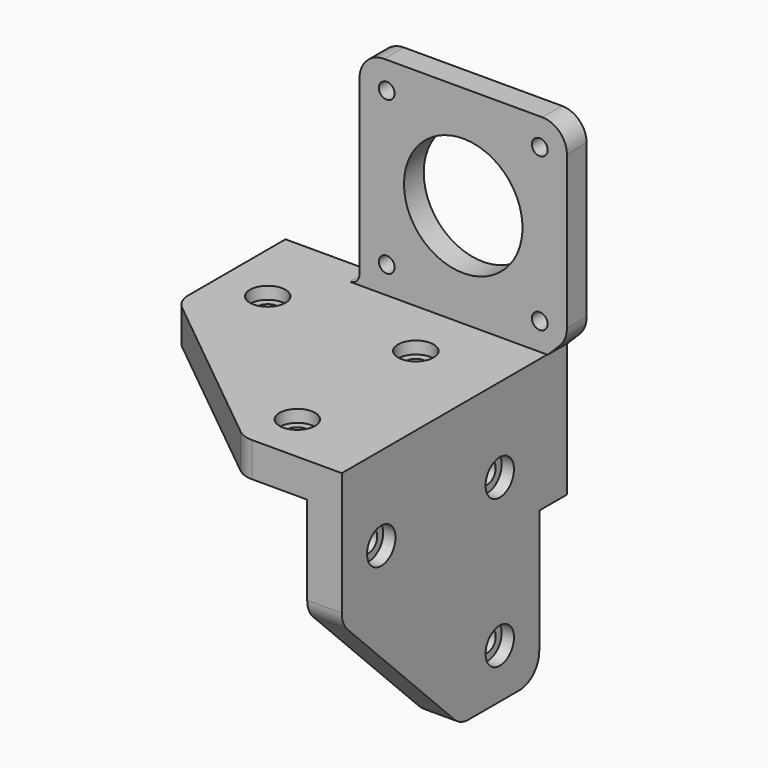
from build123d import *

# Parameters (mm, degrees)
SKETCH_R        = 2.1
PAD_DEPTH       = 7
SKETCH001_R     = 2.1
PAD001_DEPTH    = 7
SKETCH002_W     = 57
SKETCH002_H     = 27
SKETCH002_R     = 2.1
PAD002_DEPTH    = 7
SKETCH003_R     = 3.6
POCKET_DEPTH    = 2.5
SKETCH004_R     = 3.6
POCKET001_DEPTH = 2
SKETCH005_R     = 3.6
POCKET002_DEPTH = 2
SKETCH006_W     = 42
SKETCH006_H     = 42
SKETCH006_R     = 1.6
SKETCH006_R_2   = 12
PAD003_DEPTH    = 5
SKETCH007_R     = 3.6
POCKET003_DEPTH = 2.5
SKETCH008_R     = 2.1
PAD004_DEPTH    = 0.2
CHAMFER_SIZE    = 3.9
FILLET_R        = 5
FILLET001_R     = 2
FILLET002_R     = 5
FILLET003_R     = 5
FILLET004_R     = 5


with BuildPart() as part:
    # Sketch → Pad (new body)
    with BuildSketch(Plane.XY):
        Polygon((-40, 10), (-40, -10), (-3, -40), (17, -40), (17, 10), align=None)
        Circle(SKETCH_R, mode=Mode.SUBTRACT)
        with Locations((0, -30)):
            Circle(SKETCH_R, mode=Mode.SUBTRACT)
        with Locations((-30, 0)):
            Circle(SKETCH_R, mode=Mode.SUBTRACT)
    extrude(amount=PAD_DEPTH)

    # Sketch001 → Pad001 (new body)
    with BuildSketch(Plane.YZ.offset(17)):
        Polygon((10, 0), (10, -50), (-10, -50), (-40, -20), (-40, 0), align=None)
        with Locations((0, -10)):
            Circle(SKETCH001_R, mode=Mode.SUBTRACT)
        with Locations((0, -40)):
            Circle(SKETCH001_R, mode=Mode.SUBTRACT)
        with Locations((-30, -10)):
            Circle(SKETCH001_R, mode=Mode.SUBTRACT)
    extrude(amount=-PAD001_DEPTH)

    # Sketch002 → Pad002 (new body)
    with BuildSketch(Plane(origin=(0, 10, 0), x_dir=(-1, 0, 0), z_dir=(0, 1, 0))):
        with Locations((11.5, -6.5)):
            Rectangle(SKETCH002_W, SKETCH002_H)
        with Locations((30, -10)):
            Circle(SKETCH002_R, mode=Mode.SUBTRACT)
    extrude(amount=PAD002_DEPTH)

    # Sketch003 → Pocket (cut)
    with BuildSketch(Plane.XY.offset(7)):
        Circle(SKETCH003_R)
        with Locations((-30, 0)):
            Circle(SKETCH003_R)
        with Locations((0, -30)):
            Circle(SKETCH003_R)
    extrude(amount=-POCKET_DEPTH, mode=Mode.SUBTRACT)

    # Sketch004 → Pocket001 (cut)
    with BuildSketch(Plane(origin=(-40, 0, 0), x_dir=(0, -1, 0), z_dir=(-1, 0, 0))):
        with Locations((-30, -10)):
            Circle(SKETCH004_R)
        with Locations((0, -10)):
            Circle(SKETCH004_R)
        with Locations((0, -40)):
            Circle(SKETCH004_R)
    extrude(amount=-POCKET001_DEPTH, mode=Mode.SUBTRACT)

    # Sketch005 → Pocket002 (cut)
    with BuildSketch(Plane(origin=(0, 17, 0), x_dir=(-1, 0, 0), z_dir=(0, 1, 0))):
        with Locations((30, -10)):
            Circle(SKETCH005_R)
    extrude(amount=-POCKET002_DEPTH, mode=Mode.SUBTRACT)

    # Sketch006 → Pad003 (new body)
    with BuildSketch(Plane(origin=(0, 17, 0), x_dir=(-1, 0, 0), z_dir=(0, 1, 0))):
        with Locations((0, 28)):
            Rectangle(SKETCH006_W, SKETCH006_H)
        with Locations((-15.5, 43.5)):
            Circle(SKETCH006_R, mode=Mode.SUBTRACT)
        with Locations((15.5, 43.5)):
            Circle(SKETCH006_R, mode=Mode.SUBTRACT)
        with Locations((15.5, 12.5)):
            Circle(SKETCH006_R, mode=Mode.SUBTRACT)
        with Locations((-15.5, 12.5)):
            Circle(SKETCH006_R, mode=Mode.SUBTRACT)
        with Locations((0, 28)):
            Circle(SKETCH006_R_2, mode=Mode.SUBTRACT)
    extrude(amount=-PAD003_DEPTH)

    # Sketch007 → Pocket003 (cut)
    with BuildSketch(Plane.YZ.offset(17)):
        with Locations((-30, -10)):
            Circle(SKETCH007_R)
        with Locations((0, -10)):
            Circle(SKETCH007_R)
        with Locations((0, -40)):
            Circle(SKETCH007_R)
    extrude(amount=-POCKET003_DEPTH, mode=Mode.SUBTRACT)

    # Sketch008 → Pad004 (new body)
    with BuildSketch(Plane(origin=(0, 15, 0), x_dir=(-1, 0, 0), z_dir=(0, 1, 0))):
        with Locations((30, -10)):
            Circle(SKETCH008_R)
    extrude(amount=-PAD004_DEPTH)

    # Chamfer
    chamfer_edges = [part.edges().sort_by_distance(p)[0] for p in [
        (21, 14.5, 7),
    ]]
    chamfer(chamfer_edges, length=CHAMFER_SIZE)

    # Fillet
    fillet_edges = [part.edges().sort_by_distance(p)[0] for p in [
        (21, 14.5, 49),
        (-21, 14.5, 49),
    ]]
    fillet(fillet_edges, radius=FILLET_R)

    # Fillet001
    fillet001_edges = [part.edges().sort_by_distance(p)[0] for p in [
        (-21, 14.5, 7),
    ]]
    fillet(fillet001_edges, radius=FILLET001_R)

    # Fillet002
    fillet002_edges = [part.edges().sort_by_distance(p)[0] for p in [
        (13.5, 10, -50),
        (-40, 13.5, -20),
    ]]
    fillet(fillet002_edges, radius=FILLET002_R)

    # Fillet003
    fillet003_edges = [part.edges().sort_by_distance(p)[0] for p in [
        (13.5, -40, -20),
        (-3, -40, 3.5),
        (-40, -10, 3.5),
        (13.5, -10, -50),
    ]]
    fillet(fillet003_edges, radius=FILLET003_R)

    # Fillet004
    fillet004_edges = [part.edges().sort_by_distance(p)[0] for p in [
        (21, 14.5, 10.9),
    ]]
    fillet(fillet004_edges, radius=FILLET004_R)


solid = part.part
